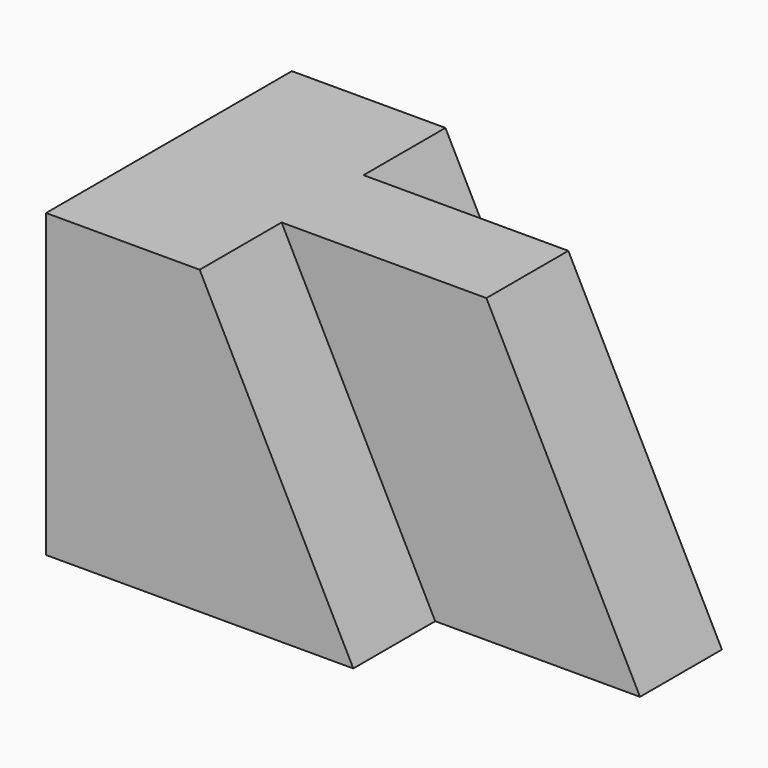
from build123d import *

# Parameters (mm, degrees)
F1_DEPTH = 38.1
F3_DEPTH = 12.7
F5_DEPTH = 12.7


with BuildPart() as f1:
    # F0 (on Front) → F1 (new body)
    with BuildSketch(Plane.XZ):
        Polygon((0, 37.344047), (0, 0), (63.5, 0), (44.45, 37.344047), align=None)
    extrude(amount=F1_DEPTH)

    # F2 (on face) → F3 (cut)
    with BuildSketch(Plane.XZ.offset(38.1)):
        Polygon((44.45, 37.344047), (19.05, 37.344047), (38.1, 0), (63.5, 0), align=None)
    extrude(amount=-F3_DEPTH, mode=Mode.SUBTRACT)

    # F4 (on face) → F5 (cut)
    with BuildSketch(Plane(origin=(0, 0, 0), x_dir=(-1, 0, 0), z_dir=(0, 1, 0))):
        Polygon((-38.1, 0), (-19.05, 37.344047), (-44.45, 37.344047), (-63.5, 0), align=None)
    extrude(amount=-F5_DEPTH, mode=Mode.SUBTRACT)


solid = f1.part
